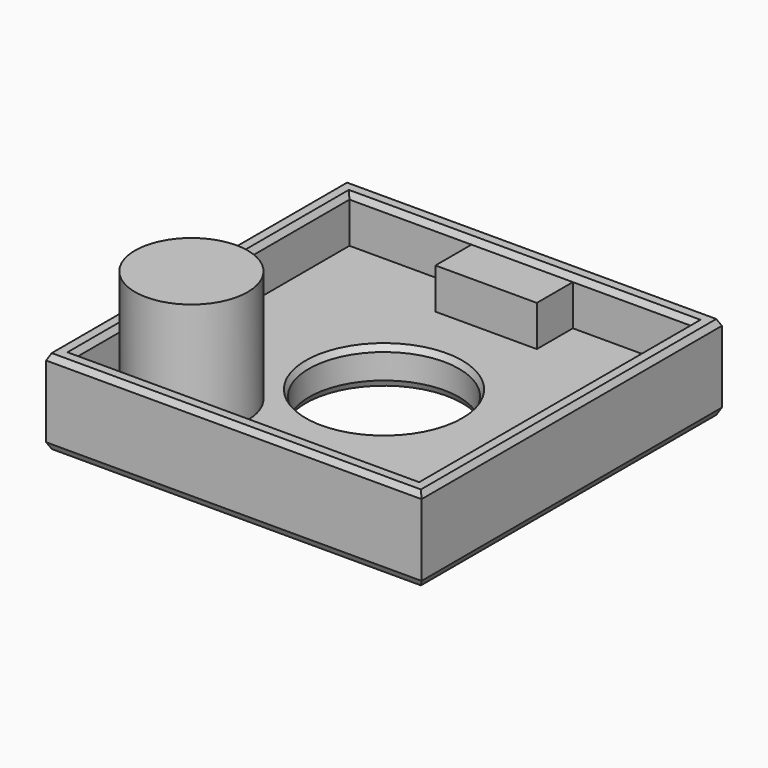
from build123d import *

# Parameters (mm, degrees)
F0_W      = 20
F0_H      = 20
F0_W_2    = 18.4
F0_H_2    = 18.4
F1_DEPTH  = 2
F2_DEPTH  = 2.5
F4_DEPTH  = 2
F5_SIZE2  = 0.334
F5_SIZE   = 0.167
F6_R      = 4
F7_DEPTH  = 4.501
F8_SIZE2  = 0.334
F8_SIZE   = 0.167
F9_SIZE2  = 0.334
F9_SIZE   = 0.167
F10_W     = 3
F10_H     = 1.2
F11_DEPTH = 2.167
F12_R     = 3
F13_DEPTH = 6


with BuildPart() as f1:
    # F0 (on Top) → F1 (new body)
    with BuildSketch(Plane.XY):
        with Locations((3.0281848833, -2.0047442615)):
            Rectangle(F0_W, F0_H)
        with Locations((3.0281848833, -2.0047442615)):
            Rectangle(F0_W_2, F0_H_2, mode=Mode.SUBTRACT)
        with Locations((3.0281848833, -2.0047442615)):
            Rectangle(F0_W_2, F0_H_2)
    extrude(amount=-F1_DEPTH)

    # F0 (on Top) → F2 (join)
    with BuildSketch(Plane.XY):
        with Locations((3.0281848833, -2.0047442615)):
            Rectangle(F0_W, F0_H)
        with Locations((3.0281848833, -2.0047442615)):
            Rectangle(F0_W_2, F0_H_2, mode=Mode.SUBTRACT)
    extrude(amount=F2_DEPTH)

    # F3 (on face) → F4 (cut)
    with BuildSketch(Plane(origin=(0, 0, -2), x_dir=(1, 0, 0), z_dir=(0, 0, -1))):
        Polygon((4.5281848833, -5.9952557385), (3.0281848833, -5.9952557385), (1.5281848833, -5.9952557385), (1.5281848833, -7.9952557385), (4.5281848833, -7.9952557385), align=None)
    extrude(amount=-F4_DEPTH, mode=Mode.SUBTRACT)

    # F5
    f5_edges = [f1.edges().sort_by_distance(p)[0] for p in [
        (13.028185, -2.004744, -2),
        (3.028185, -12.004744, -2),
        (-6.971815, -2.004744, -2),
        (-2.721815, 7.995256, -2),
        (1.528185, 6.995256, -2),
        (3.028185, 5.995256, -2),
        (4.528185, 6.995256, -2),
        (8.778185, 7.995256, -2),
    ]]
    f5_side = f1.faces().sort_by_distance((3.028185, -2.1418, -2))[0]
    chamfer(f5_edges, length=F5_SIZE, length2=F5_SIZE2, reference=f5_side)

    # F6 (on face) → F7 (cut, through all)
    with BuildSketch(Plane(origin=(0, 0, -2), x_dir=(1, 0, 0), z_dir=(0, 0, -1))):
        with Locations((3.0281848833, 2.0047442615)):
            Circle(F6_R)
    extrude(amount=-F7_DEPTH, mode=Mode.SUBTRACT)

    # F8
    f8_edges = [f1.edges().sort_by_distance(p)[0] for p in [
        (-0.971815, -2.004744, -2),
        (-0.971815, -2.004744, 0),
    ]]
    chamfer(f8_edges, length=F8_SIZE, length2=F8_SIZE2)

    # F9
    f9_edges = [f1.edges().sort_by_distance(p)[0] for p in [
        (3.028185, 7.995256, 2.5),
        (-6.971815, -2.004744, 2.5),
        (3.028185, -12.004744, 2.5),
        (13.028185, -2.004744, 2.5),
        (-6.171815, -2.004744, 2.5),
        (3.028185, 7.195256, 2.5),
        (12.228185, -2.004744, 2.5),
        (3.028185, -11.204744, 2.5),
    ]]
    f9_side = f1.faces().sort_by_distance((3.028185, 7.712413, 2.5))[0]
    chamfer(f9_edges, length=F9_SIZE, length2=F9_SIZE2, reference=f9_side)

    # F10 (on face) → F11 (join)
    with BuildSketch(Plane.XY):
        Polygon((4.5281848833, 5.9952557385), (1.5281848833, 5.9952557385), (1.5281848833, 7.1952557385), (0.3281848833, 7.1952557385), (0.3281848833, 4.7952557385), (5.7281848833, 4.7952557385), (5.7281848833, 7.1952557385), (4.5281848833, 7.1952557385), align=None)
        with Locations((3.0281848833, 6.5952557385)):
            Rectangle(F10_W, F10_H)
    extrude(amount=F11_DEPTH)

    # F12 (on face) → F13 (join)
    with BuildSketch(Plane.XY):
        with Locations((-2.6718151167, -7.7047442615)):
            Circle(F12_R)
    extrude(amount=F13_DEPTH)


solid = f1.part
